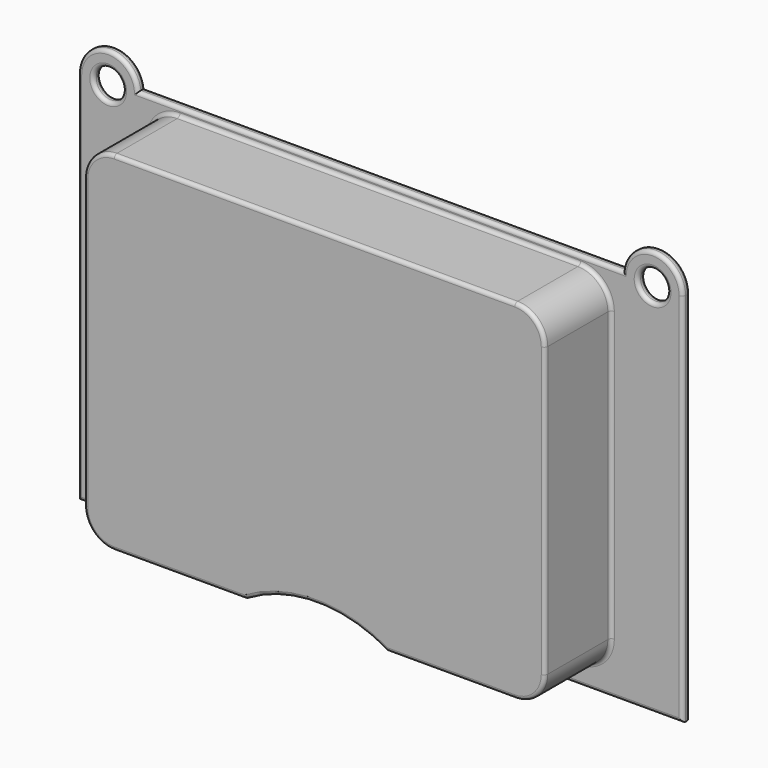
from build123d import *

# Parameters (mm, degrees)
F0_R     = 2.4640984725
F0_R_2   = 2.464
F1_DEPTH = 1.5
F2_DEPTH = 15.2
F3_R     = 0.6


with BuildPart() as f1:
    # F0 (on Front) → F1 (new body)
    with BuildSketch(Plane.XZ):
        with BuildLine():
            Line((11.5, -32.6377095831), (50.3, -32.6377095831))
            Line((50.3, -32.6377095831), (50.3, 29.8208987117))
            ThreePointArc((50.3, 29.8208987117), (45.5710946132, 34.8135440737), (40.3293969157, 30.3622904169))
            Line((40.3293969157, 30.3622904169), (-40.3293969157, 30.3622904169))
            ThreePointArc((-40.3293969157, 30.3622904169), (-45.5710946132, 34.8135440737), (-50.3, 29.8208987117))
            Line((-50.3, 29.8208987117), (-50.3, -32.6377095831))
            Line((-50.3, -32.6377095831), (-11.5, -32.6377095831))
            ThreePointArc((-11.5, -32.6377095831), (0, -26.9840452651), (11.5, -32.6377095831))
        make_face()
        with BuildLine():
            Line((-33.332, 29), (33.332, 29))
            ThreePointArc((33.332, 29), (36.8675339059, 27.5355339059), (38.332, 24))
            Line((38.332, 24), (38.332, -24))
            ThreePointArc((38.332, -24), (36.8675339059, -27.5355339059), (33.332, -29))
            Line((33.332, -29), (12.0099578053, -29))
            ThreePointArc((12.0099578053, -29), (0.2549789026, -25.769831184), (-11.5, -29))
            Line((-11.5, -29), (-33.332, -29))
            ThreePointArc((-33.332, -29), (-36.8675339059, -27.5355339059), (-38.332, -24))
            Line((-38.332, -24), (-38.332, 24))
            ThreePointArc((-38.332, 24), (-36.8675339059, 27.5355339059), (-33.332, 29))
        make_face(mode=Mode.SUBTRACT)
        with Locations((-45.3, 29.8208987117)):
            Circle(F0_R, mode=Mode.SUBTRACT)
        with Locations((45.3, 29.8208987117)):
            Circle(F0_R_2, mode=Mode.SUBTRACT)
    extrude(amount=F1_DEPTH)

    # F0 (on Front) → F2 (join)
    with BuildSketch(Plane.XZ):
        with BuildLine():
            ThreePointArc((38.332, 24), (36.8675339059, 27.5355339059), (33.332, 29))
            Line((33.332, 29), (-33.332, 29))
            ThreePointArc((-33.332, 29), (-36.8675339059, 27.5355339059), (-38.332, 24))
            Line((-38.332, 24), (-38.332, -24))
            ThreePointArc((-38.332, -24), (-36.8675339059, -27.5355339059), (-33.332, -29))
            Line((-33.332, -29), (-11.5, -29))
            ThreePointArc((-11.5, -29), (0.2549789026, -25.769831184), (12.0099578053, -29))
            Line((12.0099578053, -29), (33.332, -29))
            ThreePointArc((33.332, -29), (36.8675339059, -27.5355339059), (38.332, -24))
            Line((38.332, -24), (38.332, 24))
        make_face()
    extrude(amount=F2_DEPTH)

    # F3
    f3_edges = [f1.edges().sort_by_distance(p)[0] for p in [
        (36.867534, -15.2, 27.535534),
        (0, -15.2, 29),
        (-36.867534, -15.2, 27.535534),
        (-38.332, -15.2, 0),
        (-36.867534, -15.2, -27.535534),
        (-22.416, -15.2, -29),
        (0.254979, -15.2, -25.769831),
        (22.670979, -15.2, -29),
        (36.867534, -15.2, -27.535534),
        (38.332, -15.2, 0),
        (30.9, -1.5, -32.63771),
        (50.3, -1.5, -1.408405),
        (45.571095, -1.5, 34.813544),
        (0, -1.5, 30.36229),
        (-45.571095, -1.5, 34.813544),
        (-50.3, -1.5, -1.408405),
        (-30.9, -1.5, -32.63771),
        (0, -1.5, -26.984045),
        (0, -1.5, 29),
        (36.867534, -1.5, 27.535534),
        (38.332, -1.5, 0),
        (36.867534, -1.5, -27.535534),
        (22.670979, -1.5, -29),
        (0.254979, -1.5, -25.769831),
        (-22.416, -1.5, -29),
        (-36.867534, -1.5, -27.535534),
        (-38.332, -1.5, 0),
        (-36.867534, -1.5, 27.535534),
        (-47.764098, -1.5, 29.820899),
        (42.836, -1.5, 29.820899),
        (30.9, 0, -32.63771),
        (50.3, 0, -1.408405),
        (45.571095, 0, 34.813544),
        (0, 0, 30.36229),
        (-45.571095, 0, 34.813544),
        (-50.3, 0, -1.408405),
        (-30.9, 0, -32.63771),
        (0, 0, -26.984045),
        (-47.764098, 0, 29.820899),
        (42.836, 0, 29.820899),
    ]]
    fillet(f3_edges, radius=F3_R)


solid = f1.part
